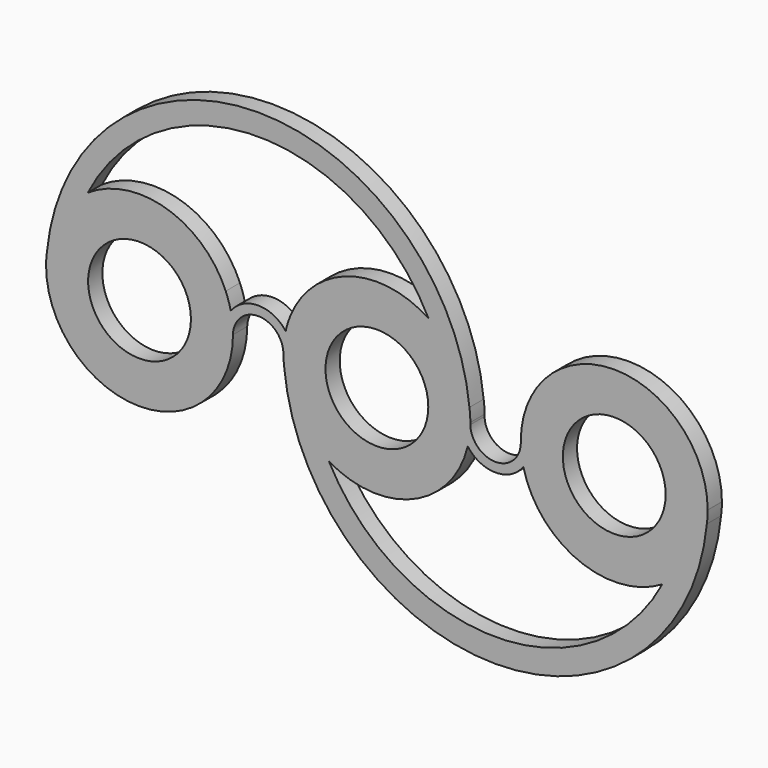
from build123d import *

# Parameters (mm, degrees)
F0_R     = 11
F1_DEPTH = 3.81


with BuildPart() as f1:
    # F0 (on Front) → F1 (new body)
    with BuildSketch(Plane.XZ):
        with BuildLine():
            ThreePointArc((-19.807413, 2.768825), (-19.924854, 1.385883), (-20, 0))
            ThreePointArc((-20, 0), (0, -20), (20, 0))
            ThreePointArc((20, 0), (19.879091, 2.195844), (19.517827, 4.365138))
            ThreePointArc((19.517827, 4.365138), (19.058031, 6.065594), (18.450395, 7.718998))
            ThreePointArc((18.450395, 7.718998), (5.792804, 19.142712), (-11.074937, 16.653702))
            ThreePointArc((-11.074937, 16.653702), (-16.930072, 10.64766), (-19.807413, 2.768825))
        make_face()
        Circle(F0_R, mode=Mode.SUBTRACT)
        with BuildLine():
            ThreePointArc((-19.807413, 2.768825), (-19.951795, 1.387757), (-20, 0))
            ThreePointArc((-20, 0), (-19.924854, 1.385883), (-19.807413, 2.768825))
        make_face()
        with BuildLine():
            ThreePointArc((19.517827, 4.365138), (19.879091, 2.195844), (20, 0))
            ThreePointArc((20, 0), (25.4, 5.274172), (30.8, 0))
            ThreePointArc((30.8, 0), (30.920909, 2.195844), (31.282173, 4.365138))
            ThreePointArc((31.282173, 4.365138), (25.4, 7.274172), (19.517827, 4.365138))
        make_face()
        with BuildLine():
            ThreePointArc((70.607413, 2.768825), (25.4, 43.667652), (-19.807413, 2.768825))
            ThreePointArc((-19.807413, 2.768825), (-16.930072, 10.64766), (-11.074937, 16.653702))
            ThreePointArc((-11.074937, 16.653702), (25.4, 39.095651), (61.874937, 16.653702))
            ThreePointArc((61.874937, 16.653702), (67.730072, 10.64766), (70.607413, 2.768825))
        make_face()
        with BuildLine():
            ThreePointArc((30.973841, -2.631241), (30.867825, -1.316882), (30.8, 0))
            ThreePointArc((30.8, 0), (30.843508, -1.318489), (30.973841, -2.631241))
        make_face()
        with BuildLine():
            ThreePointArc((31.282173, 4.365138), (30.920909, 2.195844), (30.8, 0))
            ThreePointArc((30.8, 0), (30.867825, -1.316882), (30.973841, -2.631241))
            ThreePointArc((30.973841, -2.631241), (34.083904, -10.980534), (40.511408, -17.150653))
            ThreePointArc((40.511408, -17.150653), (37.221318, -8.755701), (35.877555, 0.160252))
            ThreePointArc((35.877555, 0.160252), (34.897902, 4.305697), (32.349605, 7.718998))
            ThreePointArc((32.349605, 7.718998), (31.741969, 6.065594), (31.282173, 4.365138))
        make_face()
        with BuildLine():
            ThreePointArc((70.8, 0), (70.724854, 1.385883), (70.607413, 2.768825))
            ThreePointArc((70.607413, 2.768825), (67.730072, 10.64766), (61.874937, 16.653702))
            ThreePointArc((61.874937, 16.653702), (45.007196, 19.142712), (32.349605, 7.718998))
            ThreePointArc((32.349605, 7.718998), (34.897902, 4.305697), (35.877555, 0.160252))
            ThreePointArc((35.877555, 0.160252), (37.221318, -8.755701), (40.511408, -17.150653))
            ThreePointArc((40.511408, -17.150653), (58.532025, -18.444939), (70.242965, -4.687334))
            ThreePointArc((70.242965, -4.687334), (70.63257, -2.582473), (70.794981, -0.448027))
            ThreePointArc((70.794981, -0.448027), (70.792848, -0.223962), (70.8, 0))
        make_face()
        with Locations((50.8, 0)):
            Circle(F0_R, mode=Mode.SUBTRACT)
        with BuildLine():
            ThreePointArc((70.8, 0), (70.751795, 1.387757), (70.607413, 2.768825))
            ThreePointArc((70.607413, 2.768825), (70.724854, 1.385883), (70.8, 0))
        make_face()
        with BuildLine():
            ThreePointArc((40.511408, -17.150653), (34.083904, -10.980534), (30.973841, -2.631241))
            ThreePointArc((30.973841, -2.631241), (76.180898, -43.752218), (121.421261, -2.667887))
            ThreePointArc((121.421261, -2.667887), (118.305287, -10.996971), (111.886556, -17.151873))
            ThreePointArc((111.886556, -17.151873), (76.198614, -38.672222), (40.511408, -17.150653))
        make_face()
        with BuildLine():
            ThreePointArc((70.794981, -0.448027), (70.798745, -0.224028), (70.8, 0))
            ThreePointArc((70.8, 0), (70.792848, -0.223962), (70.794981, -0.448027))
        make_face()
        with BuildLine():
            ThreePointArc((121.599966, 0.037116), (121.530794, -1.316719), (121.421261, -2.667887))
            ThreePointArc((121.421261, -2.667887), (121.555265, -1.336934), (121.6, 0))
            ThreePointArc((121.6, 0), (121.599991, 0.018558), (121.599966, 0.037116))
        make_face()
        with BuildLine():
            ThreePointArc((111.886556, -17.151873), (118.305287, -10.996971), (121.421261, -2.667887))
            ThreePointArc((121.421261, -2.667887), (121.530794, -1.316719), (121.599966, 0.037116))
            ThreePointArc((121.599966, 0.037116), (101.581442, 19.999991), (81.6, 0))
            ThreePointArc((81.6, 0), (81.607152, -0.223962), (81.605019, -0.448027))
            ThreePointArc((81.605019, -0.448027), (81.76743, -2.582473), (82.157035, -4.687334))
            ThreePointArc((82.157035, -4.687334), (93.86688, -18.444481), (111.886556, -17.151873))
        make_face()
        with Locations((101.6, 0)):
            Circle(F0_R, mode=Mode.SUBTRACT)
        with BuildLine():
            ThreePointArc((81.605019, -0.448027), (76.2, -5.692024), (70.794981, -0.448027))
            ThreePointArc((70.794981, -0.448027), (70.63257, -2.582473), (70.242965, -4.687334))
            ThreePointArc((70.242965, -4.687334), (76.2, -7.692024), (82.157035, -4.687334))
            ThreePointArc((82.157035, -4.687334), (81.76743, -2.582473), (81.605019, -0.448027))
        make_face()
        with BuildLine():
            ThreePointArc((81.6, 0), (81.601255, -0.224028), (81.605019, -0.448027))
            ThreePointArc((81.605019, -0.448027), (81.607152, -0.223962), (81.6, 0))
        make_face()
    extrude(amount=F1_DEPTH)


solid = f1.part
